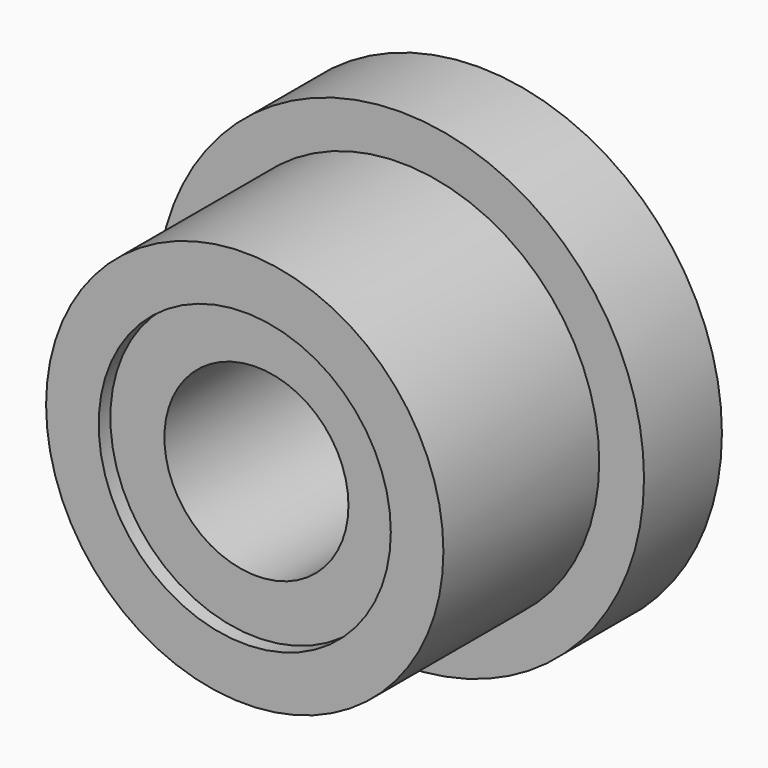
from build123d import *

# Parameters (mm, degrees)
F0_R     = 20.4
F0_R_2   = 9.45
F1_DEPTH = 30
F0_R_3   = 25
F2_DEPTH = 10
F3_R     = 15
F3_R_2   = 9.45
F4_DEPTH = 1.5


with BuildPart() as f1:
    # F0 (on Front) → F1 (new body)
    with BuildSketch(Plane.XZ):
        Circle(F0_R)
        Circle(F0_R_2, mode=Mode.SUBTRACT)
    extrude(amount=F1_DEPTH)

    # F0 (on Front) → F2 (join)
    with BuildSketch(Plane.XZ):
        Circle(F0_R_3)
        Circle(F0_R, mode=Mode.SUBTRACT)
    extrude(amount=F2_DEPTH)

    # F3 (on face) → F4 (cut)
    with BuildSketch(Plane.XZ.offset(30)):
        Circle(F3_R)
        Circle(F3_R_2, mode=Mode.SUBTRACT)
    extrude(amount=-F4_DEPTH, mode=Mode.SUBTRACT)


solid = f1.part
